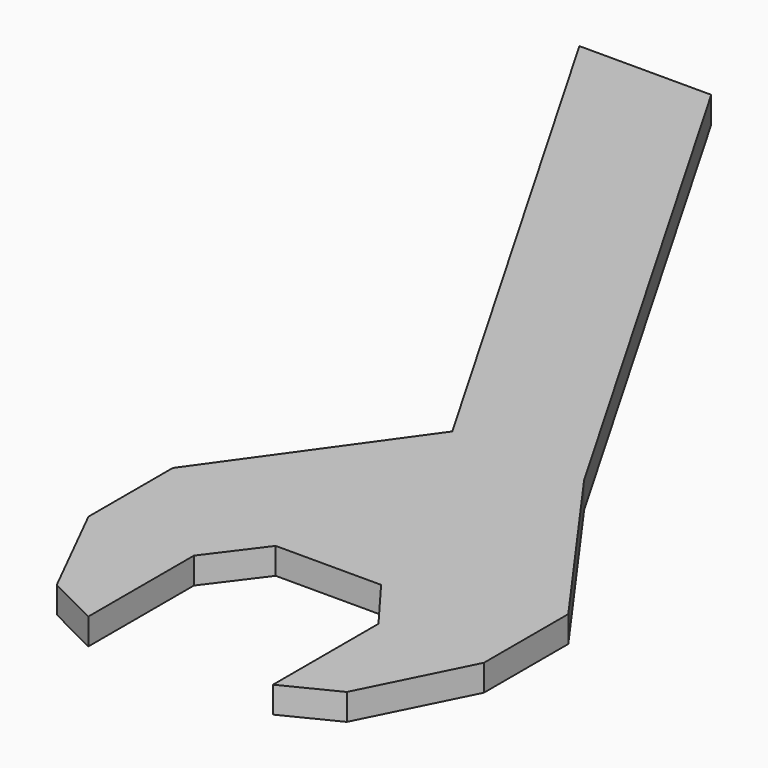
from build123d import *

# Parameters (mm, degrees)
F1_DEPTH = 10


with BuildPart() as f1:
    # F0 (on Top) → F1 (new body)
    with BuildSketch(Plane.XY):
        Polygon((-35, -20), (-20, 0), (20, 0), (35, -20), (35, -70), (55, -60), (75, -20), (75, 20), (25, 90), (-100, 306.506351), (-150, 306.506351), (-25, 90), (-75, 20), (-75, -20), (-55, -60), (-35, -70), align=None)
    extrude(amount=F1_DEPTH)


solid = f1.part
